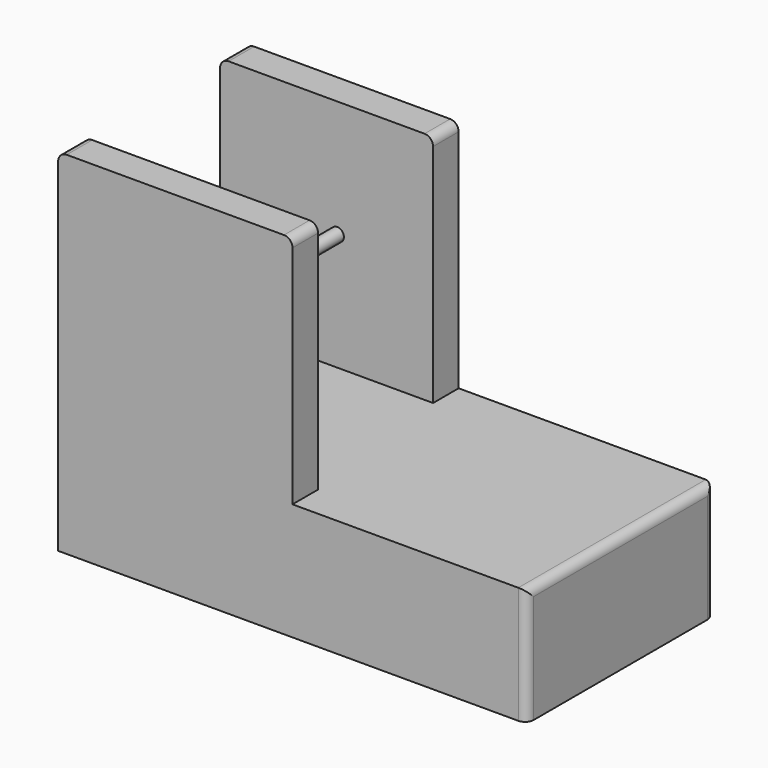
from build123d import *

# Parameters (mm, degrees)
F0_W     = 279.4
F0_H     = 139.7
F1_DEPTH = 19.05
F2_W     = 127
F2_H     = 19.05
F3_DEPTH = 139.7
F4_W     = 139.7
F4_H     = 19.05
F5_DEPTH = 139.7
F6_R     = 3.96875
F7_DEPTH = 139.7
F8_R     = 5.08
F9_DEPTH = 50.8


with BuildPart() as f1:
    # F0 (on Top) → F1 (new body)
    with BuildSketch(Plane.XY):
        with Locations((139.7, 69.85)):
            Rectangle(F0_W, F0_H)
    extrude(amount=F1_DEPTH)

    # F2 (on face) → F3 (join)
    with BuildSketch(Plane.XY.offset(19.05)):
        with Locations((63.5, 130.175)):
            Rectangle(F2_W, F2_H)
    extrude(amount=F3_DEPTH)

    # F4 (on face) → F5 (join)
    with BuildSketch(Plane.XY.offset(19.05)):
        with Locations((69.85, 9.525)):
            Rectangle(F4_W, F4_H)
    extrude(amount=F5_DEPTH)

    # F6 (on face) → F7 (join, through all)
    with BuildSketch(Plane.XZ):
        with Locations((69.85, 88.9)):
            Circle(F6_R)
    extrude(amount=-F7_DEPTH)

    # F8
    f8_edges = [f1.edges().sort_by_distance(p)[0] for p in [
        (139.7, 9.525, 158.75),
        (0, 9.525, 158.75),
        (0, 130.175, 158.75),
        (127, 130.175, 158.75),
        (279.4, 0, 9.525),
        (279.4, 139.7, 9.525),
        (279.4, 69.85, 19.05),
    ]]
    fillet(f8_edges, radius=F8_R)

    # F9 (add): a face of the model
    f9_faces = [f1.faces().sort_by_distance(p)[0] for p in [
        (139.6606680243, 69.85, 0),
    ]]
    extrude(f9_faces, amount=F9_DEPTH)


solid = f1.part
